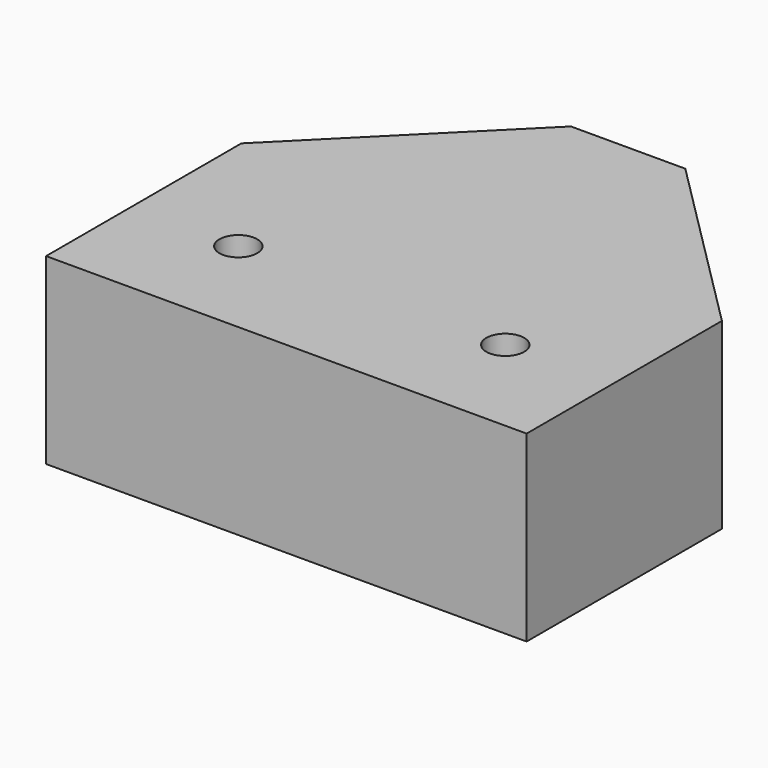
from build123d import *

# Parameters (mm, degrees)
F0_W     = 100.000004
F0_H     = 88.9
F1_DEPTH = 38.1
F2_SIZE  = 38.1
F4_D     = 7.874


with BuildPart() as f1:
    # F0 (on Top) → F1 (new body)
    with BuildSketch(Plane.XY):
        Rectangle(F0_W, F0_H)
    extrude(amount=F1_DEPTH)

    # F2
    f2_edges = [f1.edges().sort_by_distance(p)[0] for p in [
        (50.000002, 44.45, 19.05),
        (-50.000002, 44.45, 19.05),
    ]]
    chamfer(f2_edges, length=F2_SIZE)

    # F4 (through all)
    with Locations(Plane(origin=(0, 0, 0), x_dir=(1, 0, 0), z_dir=(0, 0, -1))):
        with Locations((-27.775002, 22.225), (27.775002, 22.225)):
            Hole(F4_D / 2)


solid = f1.part
